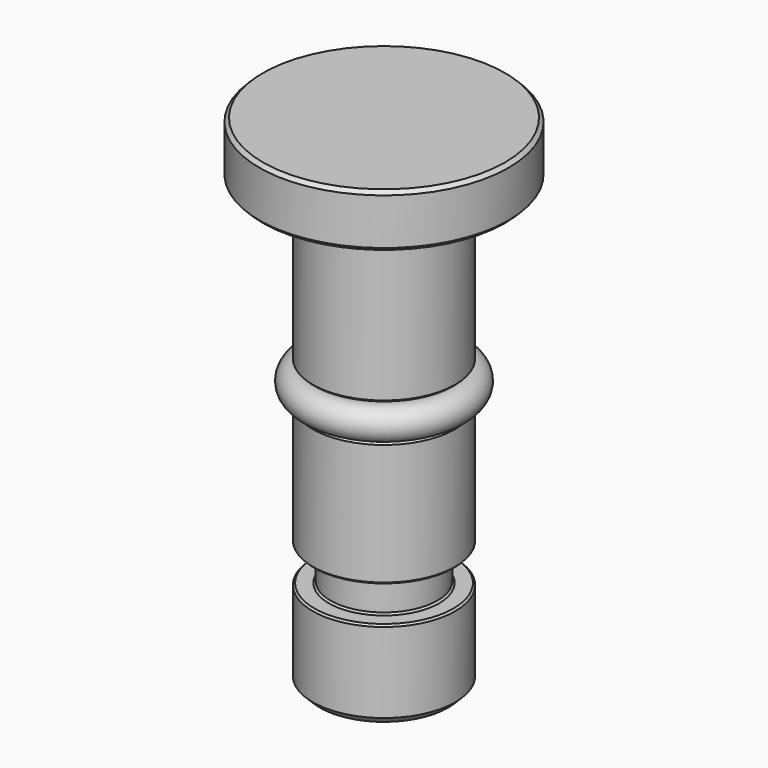
from build123d import *

# Parameters (mm, degrees)
F2_SIZE = 0.1
F3_SIZE = 0.1
F4_SIZE = 0.2
F5_SIZE = 0.4


with BuildPart() as f1:
    # F0 (on Front) → F1 (revolve)
    with BuildSketch(Plane.XZ):
        with BuildLine():
            ThreePointArc((4.78, 4.324201), (3.89, 5.214201), (3, 4.324201))
            ThreePointArc((3, 4.324201), (3.89, 3.434201), (4.78, 4.324201))
        make_face()
        Polygon((7, 17.324201), (0, 17.324201), (0, -10.675799), (4, -10.675799), (4, -5.675799), (3, -5.675799), (3, -3.675799), (4, -3.675799), (4, 3.324201), (3, 3.324201), (3, 4.324201), (3, 5.324201), (4, 5.324201), (4, 14.324201), (7, 14.324201), align=None)
    revolve(axis=Axis((0, 0, 3.324201), (0, 0, 1)))

    # F2
    f2_edges = [f1.edges().sort_by_distance(p)[0] for p in [
        (-3, 0, 5.324201),
        (-4, 0, 5.324201),
    ]]
    chamfer(f2_edges, length=F2_SIZE)

    # F3
    f3_edges = [f1.edges().sort_by_distance(p)[0] for p in [
        (-4, 0, 3.324201),
        (-4, 0, -3.675799),
        (-4, 0, -5.675799),
        (-3, 0, 3.324201),
        (-3, 0, -5.675799),
        (-3, 0, -3.675799),
    ]]
    chamfer(f3_edges, length=F3_SIZE)

    # F4
    f4_edges = [f1.edges().sort_by_distance(p)[0] for p in [
        (-7, 0, 17.324201),
        (-7, 0, 14.324201),
    ]]
    chamfer(f4_edges, length=F4_SIZE)

    # F5
    f5_edges = [f1.edges().sort_by_distance(p)[0] for p in [
        (-4, 0, -10.675799),
    ]]
    chamfer(f5_edges, length=F5_SIZE)


solid = f1.part
